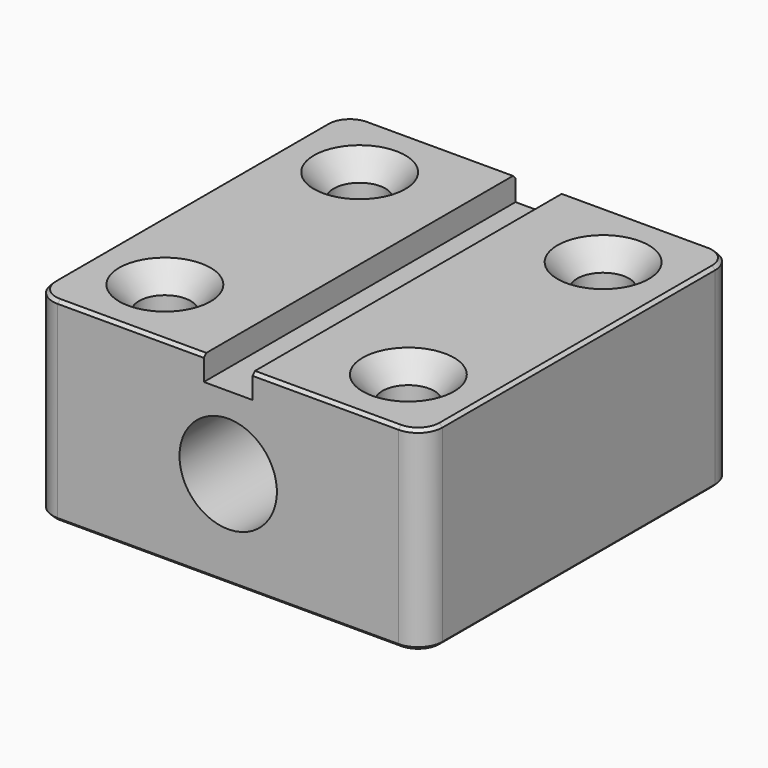
from build123d import *

# Parameters (mm, degrees)
F1_DEPTH       = 50.8
F3_D           = 13.49248
F3_CSINK_D     = 23.8252
F3_CSINK_ANGLE = 82
F4_R           = 6.35
F5_SIZE        = 0.8128
F6_SIZE        = 0.8128
F8_D           = 25.4


with BuildPart() as f1:
    # F0 (on Front) → F1 (new body, symmetric)
    with BuildSketch(Plane.XZ):
        Polygon((-6.35, 25.4), (-50.8, 25.4), (-50.8, -25.4), (50.8, -25.4), (50.8, 25.4), (6.35, 25.4), (6.35, 19.05), (-6.35, 19.05), align=None)
    extrude(amount=F1_DEPTH, both=True)

    # F3 (through all)
    with Locations(Plane.XY.offset(25.4)):
        with Locations((-31.75, 31.75), (31.75, 31.75), (31.75, -31.75), (-31.75, -31.75)):
            CounterSinkHole(F3_D / 2, F3_CSINK_D / 2, counter_sink_angle=F3_CSINK_ANGLE)

    # F4
    f4_edges = [f1.edges().sort_by_distance(p)[0] for p in [
        (-50.8, 50.8, 0),
        (-50.8, -50.8, 0),
        (50.8, -50.8, 0),
        (50.8, 50.8, 0),
    ]]
    fillet(f4_edges, radius=F4_R)

    # F5
    f5_edges = [f1.edges().sort_by_distance(p)[0] for p in [
        (-50.8, 0, -25.4),
        (-48.940128, 48.940128, -25.4),
        (-48.940128, -48.940128, -25.4),
        (0, 50.8, -25.4),
        (0, -50.8, -25.4),
        (48.940128, 48.940128, -25.4),
        (48.940128, -48.940128, -25.4),
        (50.8, 0, -25.4),
        (-38.49624, 31.75, -25.4),
        (25.00376, 31.75, -25.4),
        (-38.49624, -31.75, -25.4),
        (25.00376, -31.75, -25.4),
    ]]
    chamfer(f5_edges, length=F5_SIZE)

    # F6
    f6_edges = [f1.edges().sort_by_distance(p)[0] for p in [
        (-25.4, 50.8, 25.4),
        (25.4, 50.8, 25.4),
        (50.8, 0, 25.4),
        (-50.8, 0, 25.4),
        (-25.4, -50.8, 25.4),
        (25.4, -50.8, 25.4),
    ]]
    chamfer(f6_edges, length=F6_SIZE)

    # F8 (through all)
    with Locations(Plane.XZ.offset(50.8)):
        with Locations((0, 0)):
            Hole(F8_D / 2)


solid = f1.part
